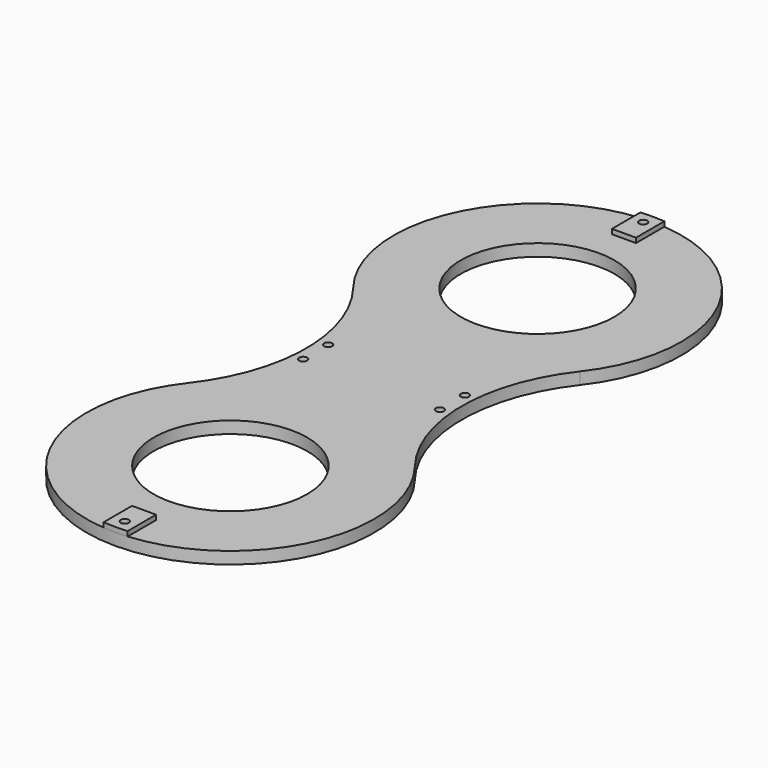
from build123d import *

# Parameters (mm, degrees)
SKETCH_R        = 32
PAD_DEPTH       = 5
PAD001_DEPTH    = 2
SKETCH002_R     = 1.7
POCKET_DEPTH    = 7.001
SKETCH003_R     = 2.95
POCKET001_DEPTH = 3
SKETCH004_R     = 1.7
POCKET002_DEPTH = 7.001


with BuildPart() as part:
    # Sketch → Pad (new body)
    with BuildSketch(Plane.XY):
        with BuildLine():
            ThreePointArc((-47.293619, 36.923077), (0, -60), (47.293619, 36.923077))
            ThreePointArc((47.293619, 123.076923), (32.469508, 80), (47.293619, 36.923077))
            ThreePointArc((47.293619, 123.076923), (3.1e-05, 220), (-47.293657, 123.076972))
            ThreePointArc((-47.293619, 36.923077), (-32.469508, 80.000031), (-47.293657, 123.076972))
        make_face()
        Circle(SKETCH_R, mode=Mode.SUBTRACT)
        with Locations((0, 160)):
            Circle(SKETCH_R, mode=Mode.SUBTRACT)
    extrude(amount=PAD_DEPTH)

    # Sketch001 (on Face8 of Pad) → Pad001 (join)
    with BuildSketch(Plane.XY.offset(5)):
        with BuildLine():
            Line((-5, -59.791304), (-5, -45))
            Line((-5, -45), (5, -45))
            Line((5, -45), (5, -59.791304))
            ThreePointArc((-5, -59.791304), (0, -60), (5, -59.791304))
        make_face()
        with BuildLine():
            ThreePointArc((5, 219.791304), (0, 220), (-5, 219.791304))
            Line((-5, 219.791304), (-5, 205))
            Line((-5, 205), (5, 205))
            Line((5, 205), (5, 219.791304))
        make_face()
    extrude(amount=PAD001_DEPTH)

    # Sketch002 (on Face14 of Pad001) → Pocket (cut, through all)
    with BuildSketch(Plane.XY.offset(7)):
        with Locations((0, -55)):
            Circle(SKETCH002_R)
        with Locations((0, 215)):
            Circle(SKETCH002_R)
    extrude(amount=-POCKET_DEPTH, mode=Mode.SUBTRACT)

    # Sketch003 (on Face4 of Pocket) → Pocket001 (cut)
    with BuildSketch(Plane(origin=(0, 0, 0), x_dir=(1, 0, 0), z_dir=(0, 0, -1))):
        with Locations((0, 55)):
            Circle(SKETCH003_R)
        with Locations((0, -215)):
            Circle(SKETCH003_R)
    extrude(amount=-POCKET001_DEPTH, mode=Mode.SUBTRACT)

    # Sketch004 (on Face4 of Pocket001) → Pocket002 (cut, through all)
    with BuildSketch(Plane(origin=(0, 0, 0), x_dir=(1, 0, 0), z_dir=(0, 0, -1))):
        with Locations((28.5, -73.5)):
            Circle(SKETCH004_R)
        with Locations((28.5, -86.5)):
            Circle(SKETCH004_R)
        with Locations((-28.5, -86.5)):
            Circle(SKETCH004_R)
        with Locations((-28.5, -73.5)):
            Circle(SKETCH004_R)
    extrude(amount=-POCKET002_DEPTH, mode=Mode.SUBTRACT)


solid = part.part
